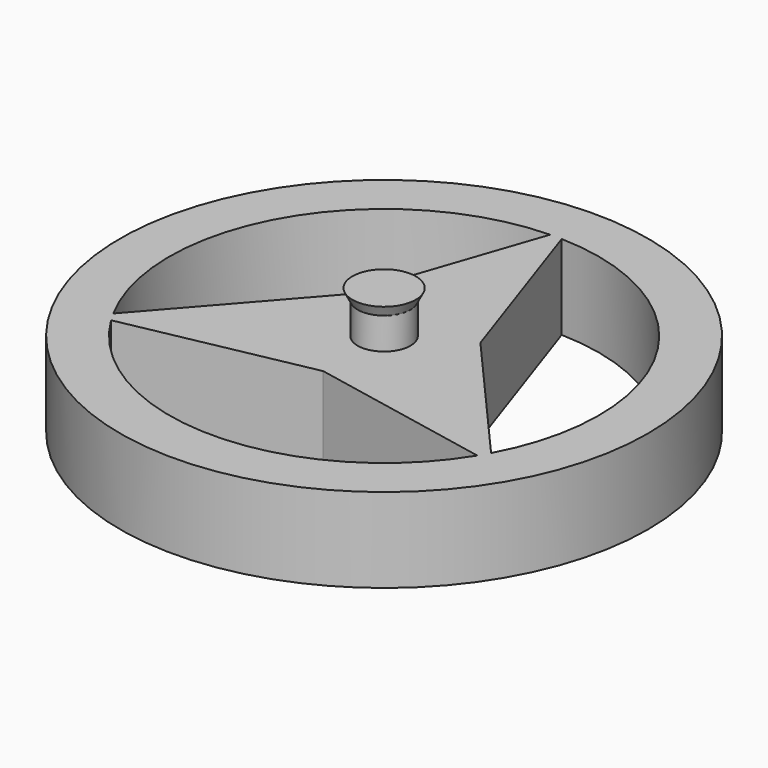
from build123d import *

# Parameters (mm, degrees)
F0_R     = 12.5
F1_DEPTH = 4


with BuildPart() as f1:
    # F0 (on Top) → F1 (new body)
    with BuildSketch(Plane.XY):
        Circle(F0_R)
        with BuildLine():
            ThreePointArc((8.672397, -5.323291), (0, -10.175849), (-8.672397, -5.323291))
            Line((-8.672397, -5.323291), (0, -3.602296))
            Line((0, -3.602296), (8.672397, -5.323291))
        make_face(mode=Mode.SUBTRACT)
        with BuildLine():
            ThreePointArc((-8.946304, -4.848871), (-8.812543, 5.087924), (-0.273907, 10.172161))
            Line((-0.273907, 10.172161), (-3.11968, 1.801148))
            Line((-3.11968, 1.801148), (-8.946304, -4.848871))
        make_face(mode=Mode.SUBTRACT)
        with BuildLine():
            Line((3.11968, 1.801148), (0.273907, 10.172161))
            ThreePointArc((0.273907, 10.172161), (8.812543, 5.087924), (8.946304, -4.848871))
            Line((8.946304, -4.848871), (3.11968, 1.801148))
        make_face(mode=Mode.SUBTRACT)
    extrude(amount=F1_DEPTH)

    # F2 (on Front) → F3 (revolve)
    with BuildSketch(Plane.XZ):
        Polygon((-1.25, 5.5), (-1.25, 3.62873), (0, 2.650845), (0, 6), (-1.503677, 6), align=None)
    revolve(axis=Axis((0, 0, 4.325422), (0, 0, -1)))


solid = f1.part
